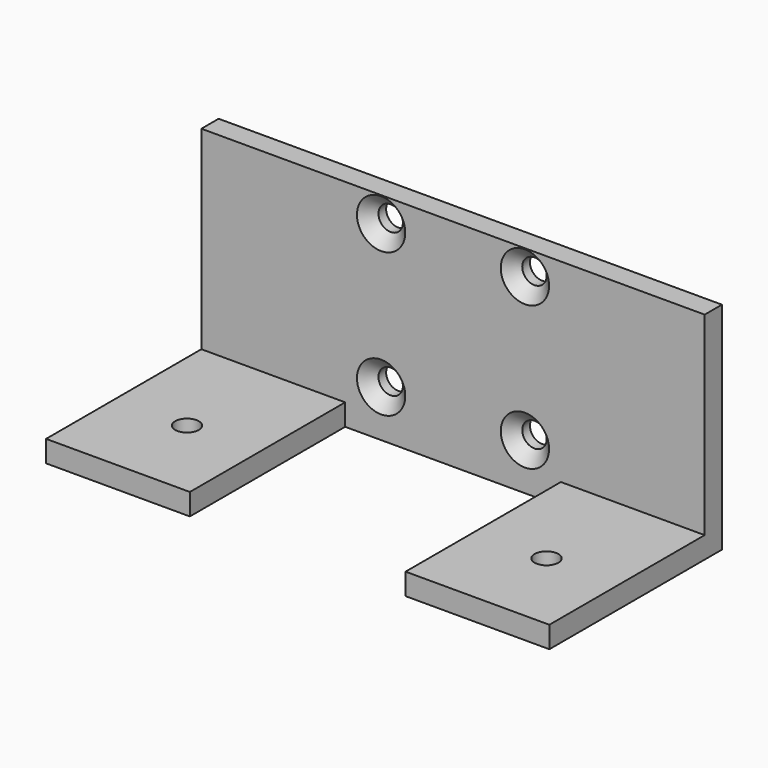
from build123d import *

# Parameters (mm, degrees)
F0_W           = 50
F0_H           = 27
F1_DEPTH       = 3
F2_D           = 3.4
F2_DEPTH       = 5
F2_CSINK_D     = 6.72
F2_CSINK_ANGLE = 90
F2_TIP         = 1.0214630523
F3_DEPTH       = 3
F0_H_2         = 3
F4_DEPTH       = 27
F5_DEPTH       = 10
F6_DEPTH       = 10
F7_W           = 30
F7_H           = 27
F8_DEPTH       = 7
F9_D           = 3.3
F9_DEPTH       = 14.1
F9_TIP         = 0.9914200214


with BuildPart() as f1:
    # F0 (on Front) → F1 (new body)
    with BuildSketch(Plane.XZ):
        with Locations((25, 16.5)):
            Rectangle(F0_W, F0_H)
    extrude(amount=-F1_DEPTH)

    # F2
    with Locations(Plane.XZ):
        with Locations((35, 26.5), (15, 26.5), (15, 6.5), (35, 6.5)):
            CounterSinkHole(F2_D / 2, F2_CSINK_D / 2, depth=F2_DEPTH, counter_sink_angle=F2_CSINK_ANGLE)
            with Locations((0, 0, -(F2_DEPTH + F2_TIP / 2))):  # 118° drill point
                Cone(0, F2_D / 2, F2_TIP, mode=Mode.SUBTRACT)

    # F3 (add): a face of the model
    f3_faces = [f1.faces().sort_by_distance(p)[0] for p in [
        (25, 1.5, 3),
    ]]
    extrude(f3_faces, amount=F3_DEPTH)

    # F0 (on Front) → F4 (join)
    with BuildSketch(Plane.XZ):
        with Locations((25, 1.5)):
            Rectangle(F0_W, F0_H_2)
    extrude(amount=F4_DEPTH)

    # F5 (add): a face of the model
    f5_faces = [f1.faces().sort_by_distance(p)[0] for p in [
        (50, 1.5, 29.5757359313),
    ]]
    extrude(f5_faces, amount=F5_DEPTH)

    # F6 (add): a face of the model
    f6_faces = [f1.faces().sort_by_distance(p)[0] for p in [
        (0, 1.5, 29.5757359313),
    ]]
    extrude(f6_faces, amount=F6_DEPTH)

    # F7 (on face) → F8 (cut)
    with BuildSketch(Plane.XY.offset(3)):
        with Locations((25, -13.5)):
            Rectangle(F7_W, F7_H)
    extrude(amount=-F8_DEPTH, mode=Mode.SUBTRACT)

    # F9
    with Locations(Plane.XY.offset(3)):
        with Locations((0, -15), (50, -15)):
            Hole(F9_D / 2, depth=F9_DEPTH)
            with Locations((0, 0, -(F9_DEPTH + F9_TIP / 2))):  # 118° drill point
                Cone(0, F9_D / 2, F9_TIP, mode=Mode.SUBTRACT)


solid = f1.part
